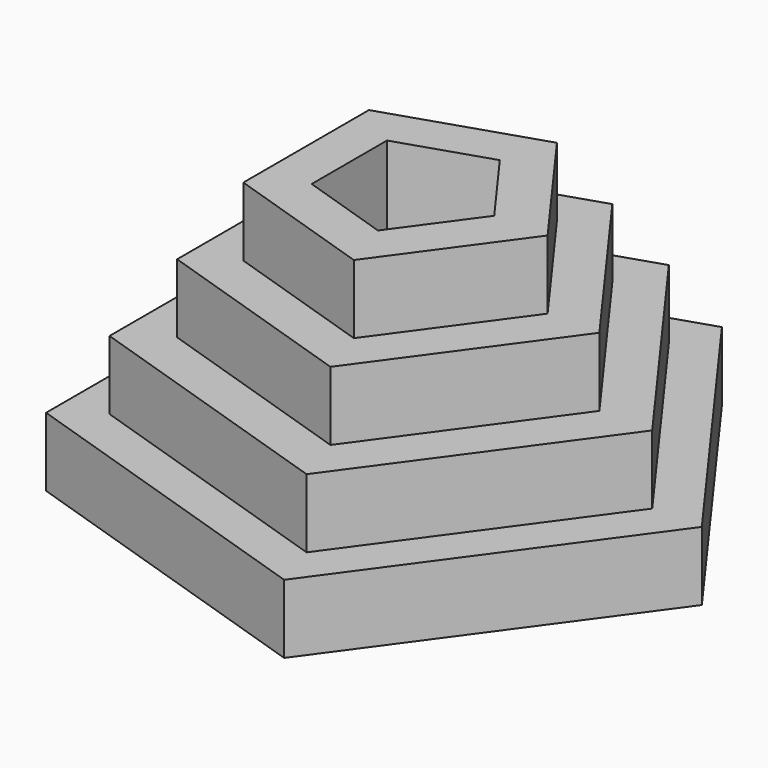
from build123d import *

# Parameters (mm, degrees)
F1_DEPTH = 12.7
F2_DEPTH = 25.4
F3_DEPTH = 38.1
F4_DEPTH = 50.8


with BuildPart() as f1:
    # F0 (on Top) → F1 (new body)
    with BuildSketch(Plane.XY):
        Polygon((-42.968333, 31.218321), (-42.968333, -31.218321), (16.412443, -50.512305), (53.11178, 0), (16.412443, 50.512305), align=None)
        Polygon((13.582712, -41.803288), (-35.560001, -25.835853), (-35.560001, 25.835853), (13.582712, 41.803288), (43.954578, 0), align=None, mode=Mode.SUBTRACT)
    extrude(amount=F1_DEPTH)

    # F0 (on Top) → F2 (join)
    with BuildSketch(Plane.XY):
        Polygon((-35.560001, 25.835853), (-35.560001, -25.835853), (13.582712, -41.803288), (43.954578, 0), (13.582712, 41.803288), align=None)
        Polygon((10.568597, 32.526797), (34.200698, 0), (10.568597, -32.526797), (-27.668946, -20.102666), (-27.668946, 20.102666), align=None, mode=Mode.SUBTRACT)
    extrude(amount=F2_DEPTH)

    # F0 (on Top) → F3 (join)
    with BuildSketch(Plane.XY):
        Polygon((10.568597, -32.526797), (34.200698, 0), (10.568597, 32.526797), (-27.668946, 20.102666), (-27.668946, -20.102666), align=None)
        Polygon((7.614722, 23.435704), (24.641757, 0), (7.614722, -23.435704), (-19.9356, -14.484062), (-19.9356, 14.484062), align=None, mode=Mode.SUBTRACT)
    extrude(amount=F3_DEPTH)

    # F0 (on Top) → F4 (join)
    with BuildSketch(Plane.XY):
        Polygon((7.614722, -23.435704), (24.641757, 0), (7.614722, 23.435704), (-19.9356, 14.484062), (-19.9356, -14.484062), align=None)
        Polygon((4.568539, 14.060516), (14.784101, 0), (4.568539, -14.060516), (-11.960589, -8.689877), (-11.960589, 8.689877), align=None, mode=Mode.SUBTRACT)
    extrude(amount=F4_DEPTH)


solid = f1.part
